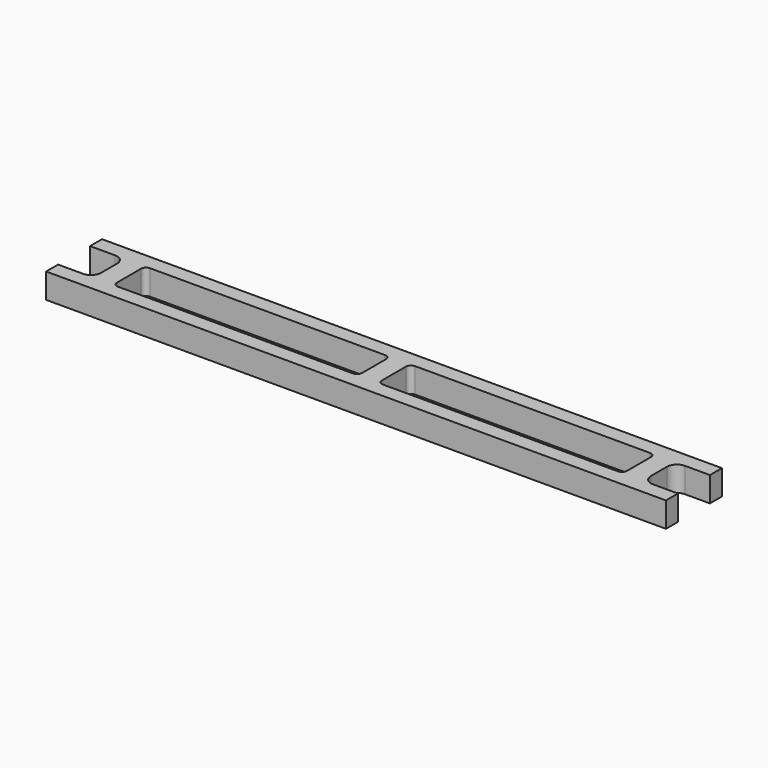
from build123d import *

# Parameters (mm, degrees)
F1_DEPTH = 5
F2_R     = 2
F3_R     = 1


with BuildPart() as f1:
    # F0 (on Top) → F1 (new body)
    with BuildSketch(Plane.XY):
        Polygon((0, 3), (0, 0), (62, 0), (62, 3), (55, 3), (55, 7), (51, 7), (51, 3), (2, 3), (2, 7), (0, 7), align=None)
    extrude(amount=F1_DEPTH)

    # F2
    f2_edges = [f1.edges().sort_by_distance(p)[0] for p in [
        (55, 3, 2.5),
    ]]
    fillet(f2_edges, radius=F2_R)

    # F3
    f3_edges = [f1.edges().sort_by_distance(p)[0] for p in [
        (51, 3, 2.5),
        (2, 3, 2.5),
    ]]
    fillet(f3_edges, radius=F3_R)

    # F4: F1 across face


with BuildPart() as f1_1:
    add(f1.part)
    add(f1.part.mirror(Plane(origin=(0, 3.5, 2.5), x_dir=(0, -1, 0), z_dir=(-1, 0, 0))))

    # F5: F1 across face


with BuildPart() as f1_2:
    add(f1_1.part)
    add(f1_1.part.mirror(Plane(origin=(0, 7, 2.5), x_dir=(-1, 0, 0), z_dir=(0, 1, 0))))


solid = f1_2.part
